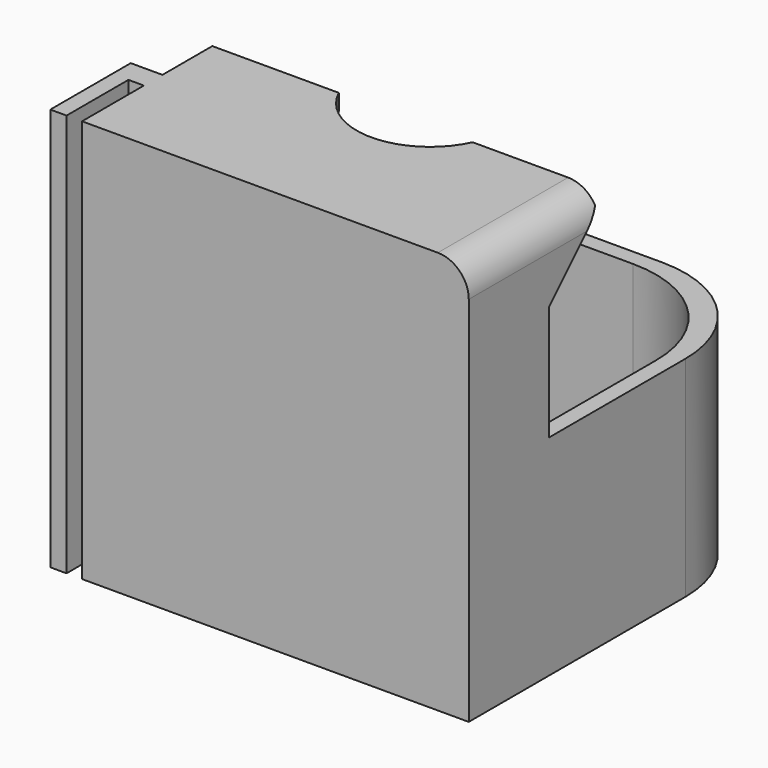
from build123d import *

# Parameters (mm, degrees)
F0_W          = 2.1
F0_H          = 8.055364
F0_H_2        = 10.9
F1_DEPTH      = 2.1
F2_DEPTH      = 50
F2_DEPTH_BACK = 2.1
F3_DEPTH      = 47.9
F4_SIZE       = 5
F5_DEPTH      = 25
F6_SIZE       = 8
F7_R          = 4


with BuildPart() as f1:
    # F0 (on Top) → F1 (new body)
    with BuildSketch(Plane.XY):
        with BuildLine():
            Line((8.642329, -3.944636), (22.9, -3.944636))
            Line((22.9, -3.944636), (22.9, 7.9))
            ThreePointArc((22.9, 7.9), (18.506602, 18.506602), (7.9, 22.9))
            Line((7.9, 22.9), (-7.9, 22.9))
            ThreePointArc((-7.9, 22.9), (-18.506602, 18.506602), (-22.9, 7.9))
            Line((-22.9, 7.9), (-22.9, -3.944636))
            Line((-22.9, -3.944636), (-8.642329, -3.944636))
            ThreePointArc((-8.642329, -3.944636), (-2.0184, 9.283106), (9.5, 0))
            ThreePointArc((9.5, 0), (9.283106, -2.0184), (8.642329, -3.944636))
        make_face()
        with BuildLine():
            Line((-22.9, -22.9), (22.9, -22.9))
            Line((22.9, -22.9), (22.9, -12))
            Line((22.9, -12), (22.9, -3.944636))
            Line((22.9, -3.944636), (8.642329, -3.944636))
            ThreePointArc((8.642329, -3.944636), (0, -9.5), (-8.642329, -3.944636))
            Line((-8.642329, -3.944636), (-22.9, -3.944636))
            Line((-22.9, -3.944636), (-22.9, -12))
            Line((-22.9, -12), (-22.9, -22.9))
        make_face()
        with BuildLine():
            ThreePointArc((-8.642329, -3.944636), (0, -9.5), (8.642329, -3.944636))
            Line((8.642329, -3.944636), (-8.642329, -3.944636))
        make_face()
        with BuildLine():
            Line((22.9, -3.944636), (25, -3.944636))
            Line((25, -3.944636), (25, 10))
            ThreePointArc((25, 10), (20.606602, 20.606602), (10, 25))
            Line((10, 25), (-10, 25))
            ThreePointArc((-10, 25), (-20.606602, 20.606602), (-25, 10))
            Line((-25, 10), (-25, -3.944636))
            Line((-25, -3.944636), (-22.9, -3.944636))
            Line((-22.9, -3.944636), (-22.9, 7.9))
            ThreePointArc((-22.9, 7.9), (-18.506602, 18.506602), (-7.9, 22.9))
            Line((-7.9, 22.9), (7.9, 22.9))
            ThreePointArc((7.9, 22.9), (18.506602, 18.506602), (22.9, 7.9))
            Line((22.9, 7.9), (22.9, -3.944636))
        make_face()
        with BuildLine():
            Line((-8.642329, -3.944636), (8.642329, -3.944636))
            ThreePointArc((8.642329, -3.944636), (9.283106, -2.0184), (9.5, 0))
            ThreePointArc((9.5, 0), (-2.0184, 9.283106), (-8.642329, -3.944636))
        make_face()
        Polygon((-25, -15), (-25, -22.9), (-22.9, -22.9), (-22.9, -12), (-25, -12), (-29.1, -12), (-29.1, -25), (-27, -25), (-27, -15), align=None)
        Polygon((-25, -25), (25, -25), (25, -22.9), (22.9, -22.9), (-22.9, -22.9), (-25, -22.9), align=None)
        with Locations((-23.95, -7.972318)):
            Rectangle(F0_W, F0_H)
        with Locations((23.95, -7.972318)):
            Rectangle(F0_W, F0_H)
        with Locations((23.95, -17.45)):
            Rectangle(F0_W, F0_H_2)
    extrude(amount=-F1_DEPTH)

    # F0 (on Top) → F2 (join, two sides)
    with BuildSketch(Plane.XY) as f2_sk:
        with BuildLine():
            Line((-22.9, -22.9), (22.9, -22.9))
            Line((22.9, -22.9), (22.9, -12))
            Line((22.9, -12), (22.9, -3.944636))
            Line((22.9, -3.944636), (8.642329, -3.944636))
            ThreePointArc((8.642329, -3.944636), (0, -9.5), (-8.642329, -3.944636))
            Line((-8.642329, -3.944636), (-22.9, -3.944636))
            Line((-22.9, -3.944636), (-22.9, -12))
            Line((-22.9, -12), (-22.9, -22.9))
        make_face()
        Polygon((-25, -15), (-25, -22.9), (-22.9, -22.9), (-22.9, -12), (-25, -12), (-29.1, -12), (-29.1, -25), (-27, -25), (-27, -15), align=None)
        Polygon((-25, -25), (25, -25), (25, -22.9), (22.9, -22.9), (-22.9, -22.9), (-25, -22.9), align=None)
        with Locations((23.95, -17.45)):
            Rectangle(F0_W, F0_H_2)
        with Locations((-23.95, -7.972318)):
            Rectangle(F0_W, F0_H)
        with Locations((23.95, -7.972318)):
            Rectangle(F0_W, F0_H)
    extrude(amount=F2_DEPTH)
    extrude(f2_sk.sketch, amount=-F2_DEPTH_BACK)

    # F0 (on Top) → F3 (cut)
    with BuildSketch(Plane.XY):
        with BuildLine():
            Line((-22.9, -22.9), (22.9, -22.9))
            Line((22.9, -22.9), (22.9, -12))
            Line((22.9, -12), (22.9, -3.944636))
            Line((22.9, -3.944636), (8.642329, -3.944636))
            ThreePointArc((8.642329, -3.944636), (0, -9.5), (-8.642329, -3.944636))
            Line((-8.642329, -3.944636), (-22.9, -3.944636))
            Line((-22.9, -3.944636), (-22.9, -12))
            Line((-22.9, -12), (-22.9, -22.9))
        make_face()
        with Locations((-23.95, -7.972318)):
            Rectangle(F0_W, F0_H)
        with Locations((23.95, -7.972318)):
            Rectangle(F0_W, F0_H)
    extrude(amount=F3_DEPTH, mode=Mode.SUBTRACT)

    # F4
    f4_edges = [f1.edges().sort_by_distance(p)[0] for p in [
        (0, -22.9, 47.9),
    ]]
    chamfer(f4_edges, length=F4_SIZE)

    # F0 (on Top) → F5 (join)
    with BuildSketch(Plane.XY):
        with BuildLine():
            Line((22.9, -3.944636), (25, -3.944636))
            Line((25, -3.944636), (25, 10))
            ThreePointArc((25, 10), (20.606602, 20.606602), (10, 25))
            Line((10, 25), (-10, 25))
            ThreePointArc((-10, 25), (-20.606602, 20.606602), (-25, 10))
            Line((-25, 10), (-25, -3.944636))
            Line((-25, -3.944636), (-22.9, -3.944636))
            Line((-22.9, -3.944636), (-22.9, 7.9))
            ThreePointArc((-22.9, 7.9), (-18.506602, 18.506602), (-7.9, 22.9))
            Line((-7.9, 22.9), (7.9, 22.9))
            ThreePointArc((7.9, 22.9), (18.506602, 18.506602), (22.9, 7.9))
            Line((22.9, 7.9), (22.9, -3.944636))
        make_face()
        with Locations((-23.95, -7.972318)):
            Rectangle(F0_W, F0_H)
        with Locations((23.95, -7.972318)):
            Rectangle(F0_W, F0_H)
    extrude(amount=F5_DEPTH)

    # F6
    f6_edges = [f1.edges().sort_by_distance(p)[0] for p in [
        (23.95, -12, 47.9),
        (-23.95, -12, 47.9),
    ]]
    chamfer(f6_edges, length=F6_SIZE)

    # F7
    f7_edges = [f1.edges().sort_by_distance(p)[0] for p in [
        (25, -14.472318, 50),
    ]]
    fillet(f7_edges, radius=F7_R)


solid = f1.part
